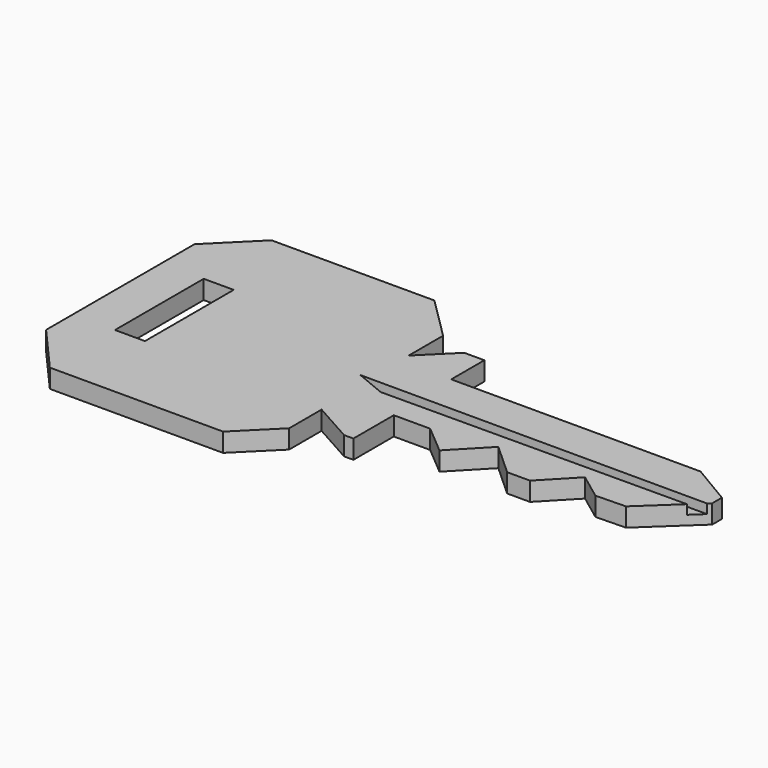
from build123d import *

# Parameters (mm, degrees)
EXTRUDE002_DEPTH = 5
EXTRUDE001_DEPTH = 2
EXTRUDE_DEPTH    = 2


with BuildPart() as obj1:
    # path4171 → Extrude002 (new body)
    with BuildSketch(Plane(origin=(6.373784, -15.136707, 0), x_dir=(0, 1, 0), z_dir=(0, 0, 1))):
        with BuildLine():
            add(Edge.make_bspline(
                [(-5.911478, 1.599036), (-5.911478, -1.599036)],
                knots=[0, 0, 11.33175, 11.33175], degree=1))
            add(Edge.make_bspline(
                [(-5.911478, -1.599036), (5.911478, -1.599036)],
                knots=[0, 0, 41.89236, 41.89236], degree=1))
            add(Edge.make_bspline(
                [(5.911478, -1.599036), (5.911478, 1.599036)],
                knots=[0, 0, 11.33175, 11.33175], degree=1))
            add(Edge.make_bspline(
                [(5.911478, 1.599036), (-5.911478, 1.599036)],
                knots=[0, 0, 41.89236, 41.89236], degree=1))
        make_face()
    extrude(amount=EXTRUDE002_DEPTH)


with BuildPart() as obj1_1:
    # Extrude002 placement: moved
    add(obj1.part.moved(Location((0, 0, -3))))


with BuildPart() as obj2:
    # path4175 → Extrude001 (new body)
    with BuildSketch(Plane(origin=(45.980416, -15.300068, 0), x_dir=(0, -1, 0), z_dir=(0, 0, -1))):
        with BuildLine():
            add(Edge.make_bspline(
                [(-0.66988, 20.181412), (-0.616291, -20.181412)],
                knots=[0, 0, 143.018006, 143.018006], degree=1))
            add(Edge.make_bspline(
                [(-0.616291, -20.181412), (0.509109, -18.969959)],
                knots=[0, 0, 5.858947, 5.858947], degree=1))
            add(Edge.make_bspline(
                [(0.509109, -18.969959), (0.66988, 16.950874)],
                knots=[0, 0, 127.279815, 127.279815], degree=1))
            add(Edge.make_bspline(
                [(0.66988, 16.950874), (-0.66988, 20.181412)],
                knots=[0, 0, 12.392123, 12.392123], degree=1))
        make_face()
    extrude(amount=EXTRUDE001_DEPTH)


with BuildPart() as obj2_1:
    # Extrude001 placement: moved
    add(obj2.part.moved(Location((0, 0, 1))))


with BuildPart() as obj3:
    # path4167 → Extrude (new body)
    with BuildSketch(Plane(origin=(31.691849, -15.004078, 0), x_dir=(0, -1, 0), z_dir=(0, 0, -1))):
        with BuildLine():
            add(Edge.make_bspline(
                [(9.606149, 31.409626), (-10.174564, 31.409626)],
                knots=[0, 0, 70.08914, 70.08914], degree=1))
            add(Edge.make_bspline(
                [(-10.174564, 31.409626), (-14.721856, 26.840954)],
                knots=[0, 0, 22.840078, 22.840078], degree=1))
            add(Edge.make_bspline(
                [(-14.721856, 26.840954), (-14.721856, 9.479997)],
                knots=[0, 0, 61.5152, 61.5152], degree=1))
            add(Edge.make_bspline(
                [(-14.721856, 9.479997), (-10.212458, 4.949393)],
                knots=[0, 0, 22.649752, 22.649752], degree=1))
            add(Edge.make_bspline(
                [(-10.212458, 4.949393), (-5.627273, 4.949393)],
                knots=[0, 0, 16.24672, 16.24672], degree=1))
            add(Edge.make_bspline(
                [(-5.627273, 4.949393), (-8.905112, 1.656139)],
                knots=[0, 0, 16.463895, 16.463895], degree=1))
            add(Edge.make_bspline(
                [(-8.905112, 1.656139), (-8.905112, -0.494942)],
                knots=[0, 0, 7.62194, 7.62194], degree=1))
            add(Edge.make_bspline(
                [(-8.905112, -0.494942), (-4.490451, -0.494942)],
                knots=[0, 0, 15.6425, 15.6425], degree=1))
            add(Edge.make_bspline(
                [(-4.490451, -0.494942), (-4.490451, -27.06939)],
                knots=[0, 0, 94.16143, 94.16143], degree=1))
            add(Edge.make_bspline(
                [(-4.490451, -27.06939), (-1.913652, -31.409626)],
                knots=[0, 0, 17.884943, 17.884943], degree=1))
            add(Edge.make_bspline(
                [(-1.913652, -31.409626), (-0.625254, -31.409626)],
                knots=[0, 0, 4.56519, 4.56519], degree=1))
            add(Edge.make_bspline(
                [(-0.625254, -31.409626), (4.300981, -26.155653)],
                knots=[0, 0, 25.519687, 25.519687], degree=1))
            add(Edge.make_bspline(
                [(4.300981, -26.155653), (4.376766, -22.957582)],
                knots=[0, 0, 11.334931, 11.334931], degree=1))
            add(Edge.make_bspline(
                [(4.376766, -22.957582), (2.330485, -20.21638)],
                knots=[0, 0, 12.120727, 12.120727], degree=1))
            add(Edge.make_bspline(
                [(2.330485, -20.21638), (5.665167, -17.018305)],
                knots=[0, 0, 16.371375, 16.371375], degree=1))
            add(Edge.make_bspline(
                [(5.665167, -17.018305), (5.665167, -14.581683)],
                knots=[0, 0, 8.6337, 8.6337], degree=1))
            add(Edge.make_bspline(
                [(5.665167, -14.581683), (2.557849, -11.155178)],
                knots=[0, 0, 16.389992, 16.389992], degree=1))
            add(Edge.make_bspline(
                [(2.557849, -11.155178), (6.119891, -7.72867)],
                knots=[0, 0, 17.513081, 17.513081], degree=1))
            add(Edge.make_bspline(
                [(6.119891, -7.72867), (3.543095, -4.682891)],
                knots=[0, 0, 14.136262, 14.136262], degree=1))
            add(Edge.make_bspline(
                [(3.543095, -4.682891), (3.543095, -0.799519)],
                knots=[0, 0, 13.75998, 13.75998], degree=1))
            add(Edge.make_bspline(
                [(3.543095, -0.799519), (8.92406, -0.799519)],
                knots=[0, 0, 19.06641, 19.06641], degree=1))
            add(Edge.make_bspline(
                [(8.92406, -0.799519), (8.92406, 0.190362)],
                knots=[0, 0, 3.50745, 3.50745], degree=1))
            add(Edge.make_bspline(
                [(8.92406, 0.190362), (6.498837, 4.530598)],
                knots=[0, 0, 17.616815, 17.616815], degree=1))
            add(Edge.make_bspline(
                [(6.498837, 4.530598), (10.818765, 4.530598)],
                knots=[0, 0, 15.30683, 15.30683], degree=1))
            add(Edge.make_bspline(
                [(10.818765, 4.530598), (14.721856, 8.452045)],
                knots=[0, 0, 19.604406, 19.604406], degree=1))
            add(Edge.make_bspline(
                [(14.721856, 8.452045), (14.721856, 26.9171)],
                knots=[0, 0, 65.42736, 65.42736], degree=1))
            add(Edge.make_bspline(
                [(14.721856, 26.9171), (9.606149, 31.409626)],
                knots=[0, 0, 24.123975, 24.123975], degree=1))
        make_face()
    extrude(amount=EXTRUDE_DEPTH)

    # Cut: cut obj2
    add(obj2_1.part, mode=Mode.SUBTRACT)

    # Cut001: cut obj1
    add(obj1_1.part, mode=Mode.SUBTRACT)


solid = obj3.part
